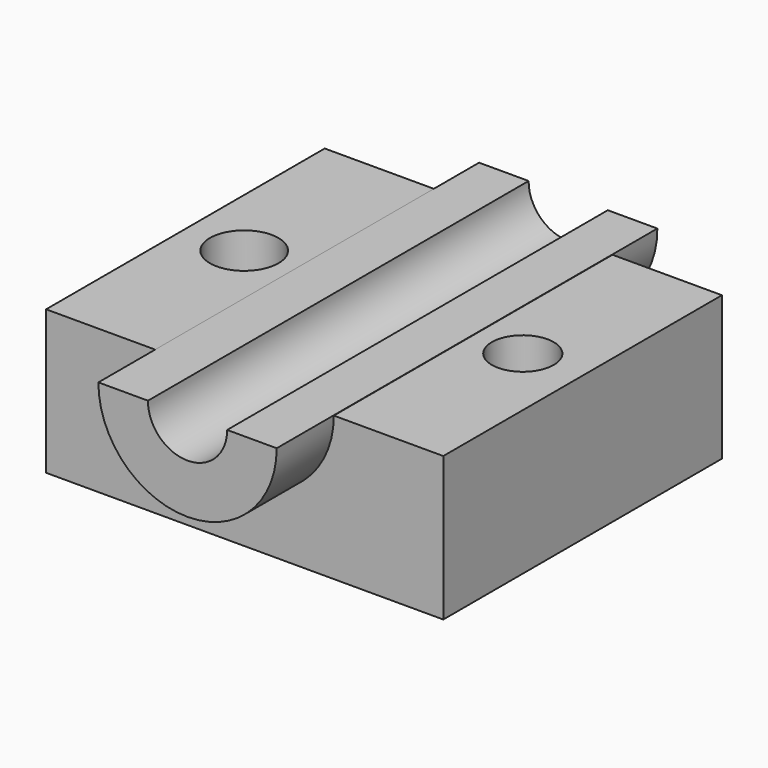
from build123d import *

# Parameters (mm, degrees)
F0_W          = 187.8567785025
F0_H          = 164.7213101387
F1_DEPTH      = 25.4
F2_DEPTH      = 17.272
F3_R          = 42.1596023767
F3_R_2        = 18.71871866
F4_DEPTH      = 191.262
F4_DEPTH_BACK = 33.782
F5_DEPTH      = 191.263
F7_DEPTH      = 191.263
F7_DEPTH_BACK = 101.6
F8_R          = 16.2084623058
F8_R_2        = 14.6310298949
F9_DEPTH      = 68.073


with BuildPart() as f1:
    # F0 (on Top) → F1 (new body, symmetric)
    with BuildSketch(Plane.XY):
        Rectangle(F0_W, F0_H)
    extrude(amount=F1_DEPTH, both=True)

    # F2 (add, symmetric): a face of the model
    f2_faces = [f1.faces().sort_by_distance(p)[0] for p in [
        (0, 0, 25.4),
    ]]
    extrude(f2_faces, amount=F2_DEPTH, both=True)

    # F3 (on face) → F4 (join, two sides)
    with BuildSketch(Plane.XZ.offset(82.3606550694)) as f4_sk:
        with Locations((0, 42.672)):
            Circle(F3_R)
        with Locations((0, 42.672)):
            Circle(F3_R_2, mode=Mode.SUBTRACT)
    extrude(amount=-F4_DEPTH)
    extrude(f4_sk.sketch, amount=F4_DEPTH_BACK)

    # F3 (on face) → F5 (cut, through all)
    with BuildSketch(Plane.XZ.offset(82.3606550694)):
        with BuildLine():
            ThreePointArc((-18.71871866, 42.672), (0, 23.95328134), (18.71871866, 42.672))
            Line((18.71871866, 42.672), (-18.71871866, 42.672))
        make_face()
    extrude(amount=-F5_DEPTH, mode=Mode.SUBTRACT)

    # F6 (on face) → F7 (cut, two sides)
    with BuildSketch(Plane.XZ.offset(82.3606550694)) as f7_sk:
        Polygon((-50.2506420016, 42.8143106401), (0, 42.8143106401), (50.0124804676, 42.8143106401), (50.0124804676, 85.4440033436), (-50.2506420016, 85.4440033436), align=None)
    extrude(amount=-F7_DEPTH, mode=Mode.SUBTRACT)
    extrude(f7_sk.sketch, amount=F7_DEPTH_BACK, mode=Mode.SUBTRACT)

    # F8 (on face) → F9 (cut, through all)
    with BuildSketch(Plane.XY.offset(42.672)):
        with Locations((-66.1240369081, 0)):
            Circle(F8_R)
        with Locations((65.6378343701, 0)):
            Circle(F8_R_2)
    extrude(amount=-F9_DEPTH, mode=Mode.SUBTRACT)


solid = f1.part
